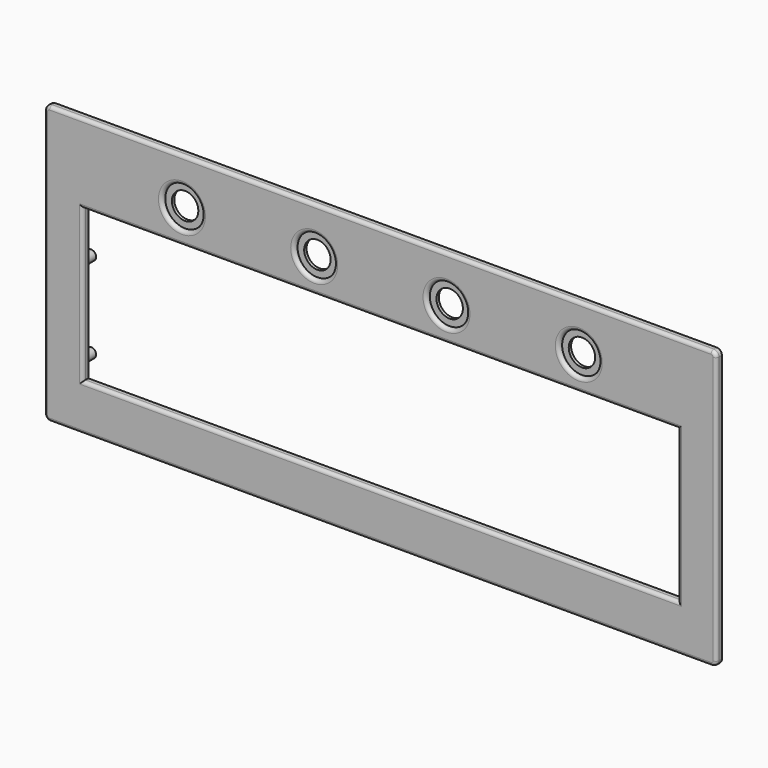
from build123d import *

# Parameters (mm, degrees)
SKETCH013_R             = 4
SKETCH013_W             = 180
SKETCH013_H             = 46
PAD005_DEPTH            = 2.1
SKETCH014_R             = 1.5
PAD006_DEPTH            = 6.1
SKETCH015_R             = 6
POCKET005_DEPTH         = 1.2
FILLET_R                = 1.1
FILLET001_R             = 1
BODY004_PLACEMENT_ANGLE = 180


with BuildPart() as part:
    # Sketch013 → Pad005 (new body)
    with BuildSketch(Plane.XZ):
        with BuildLine():
            Line((-100, 0), (100, 0))
            ThreePointArc((101.6, -1.6), (101.131371, -0.468629), (100, 0))
            Line((101.6, -1.6), (101.6, -82.4))
            ThreePointArc((100, -84), (101.131371, -83.531371), (101.6, -82.4))
            Line((-100, -84), (100, -84))
            ThreePointArc((-101.6, -82.4), (-101.131371, -83.531371), (-100, -84))
            Line((-101.6, -1.6), (-101.6, -82.4))
            ThreePointArc((-100, 0), (-101.131371, -0.468629), (-101.6, -1.6))
        make_face()
        with Locations((-20, -70)):
            Circle(SKETCH013_R, mode=Mode.SUBTRACT)
        with Locations((20, -70)):
            Circle(SKETCH013_R, mode=Mode.SUBTRACT)
        with Locations((60, -70)):
            Circle(SKETCH013_R, mode=Mode.SUBTRACT)
        with Locations((-60, -70)):
            Circle(SKETCH013_R, mode=Mode.SUBTRACT)
        with Locations((0, -37)):
            Rectangle(SKETCH013_W, SKETCH013_H, mode=Mode.SUBTRACT)
    extrude(amount=PAD005_DEPTH)

    # Sketch014 → Pad006 (join)
    with BuildSketch(Plane.XZ):
        with Locations((-84, -6.8)):
            Circle(SKETCH014_R)
        with Locations((84, -6.8)):
            Circle(SKETCH014_R)
        with Locations((94, -17)):
            Circle(SKETCH014_R)
        with Locations((94, -69)):
            Circle(SKETCH014_R)
        with Locations((-94, -69)):
            Circle(SKETCH014_R)
        with Locations((-94, -17)):
            Circle(SKETCH014_R)
        with Locations((0, -7)):
            Circle(SKETCH014_R)
        with Locations((-94, -43)):
            Circle(SKETCH014_R)
        with Locations((94, -43)):
            Circle(SKETCH014_R)
    extrude(amount=-PAD006_DEPTH)

    # Sketch015 (on Face5 of Pad006) → Pocket005 (cut)
    with BuildSketch(Plane.XZ.offset(2.1)):
        with Locations((-60, -70)):
            Circle(SKETCH015_R)
        with Locations((-20, -70)):
            Circle(SKETCH015_R)
        with Locations((20, -70)):
            Circle(SKETCH015_R)
        with Locations((60, -70)):
            Circle(SKETCH015_R)
    extrude(amount=-POCKET005_DEPTH, mode=Mode.SUBTRACT)

    # Fillet
    fillet_edges = [part.edges().sort_by_distance(p)[0] for p in [
        (-66, -2.1, -70),
        (-26, -2.1, -70),
        (14, -2.1, -70),
        (54, -2.1, -70),
    ]]
    fillet(fillet_edges, radius=FILLET_R)

    # Fillet001
    fillet001_edges = [part.edges().sort_by_distance(p)[0] for p in [
        (-67.1, -2.1, -70),
        (-101.131371, -2.1, -0.468629),
        (0, -2.1, 0),
        (-101.6, -2.1, -42),
        (101.131371, -2.1, -0.468629),
        (-101.131371, -2.1, -83.531371),
        (101.6, -2.1, -42),
        (0, -2.1, -84),
        (101.131371, -2.1, -83.531371),
        (0, -2.1, -14),
        (-90, -2.1, -37),
        (90, -2.1, -37),
        (0, -2.1, -60),
        (-27.1, -2.1, -70),
        (12.9, -2.1, -70),
        (52.9, -2.1, -70),
    ]]
    fillet(fillet001_edges, radius=FILLET001_R)


with BuildPart() as part_1:
    # Body004 placement: moved
    add(part.part.moved(Location((0, -94.9, 0))).rotate(Axis((0, -94.9, 0), (0, 1, 0)), BODY004_PLACEMENT_ANGLE))


solid = part_1.part
